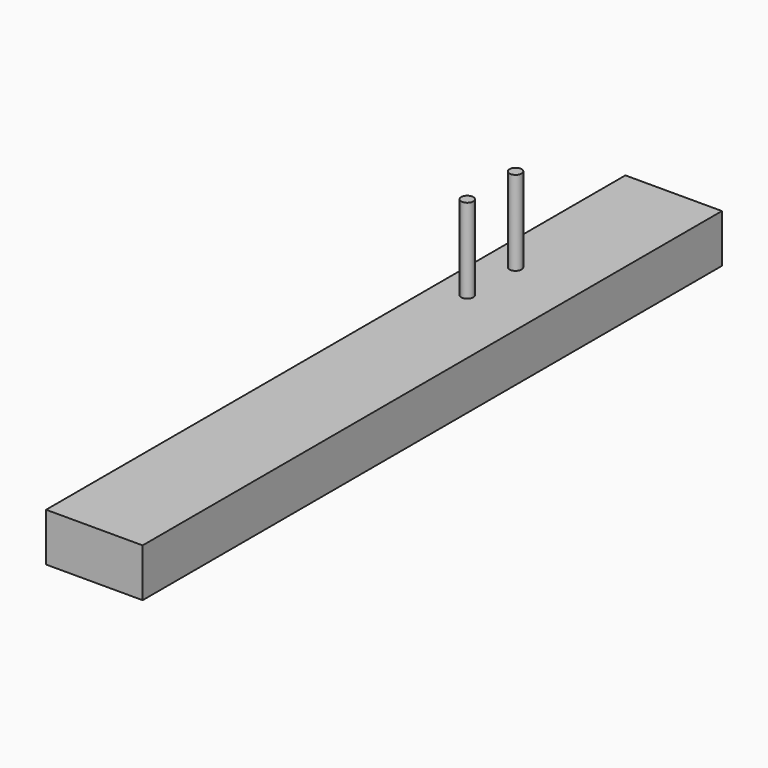
from build123d import *

# Parameters (mm, degrees)
F0_W     = 80
F0_H     = 600
F0_R     = 5
F1_DEPTH = 40
F2_DEPTH = 70


with BuildPart() as f1:
    # F0 (on Top) → F1 (new body)
    with BuildSketch(Plane.XY):
        Rectangle(F0_W, F0_H)
        with Locations((-15, 105)):
            Circle(F0_R, mode=Mode.SUBTRACT)
        with Locations((-15, 155)):
            Circle(F0_R, mode=Mode.SUBTRACT)
        with Locations((-15, 155)):
            Circle(F0_R)
        with Locations((-15, 105)):
            Circle(F0_R)
    extrude(amount=-F1_DEPTH)

    # F0 (on Top) → F2 (join)
    with BuildSketch(Plane.XY):
        with Locations((-15, 155)):
            Circle(F0_R)
        with Locations((-15, 105)):
            Circle(F0_R)
    extrude(amount=F2_DEPTH)


solid = f1.part
